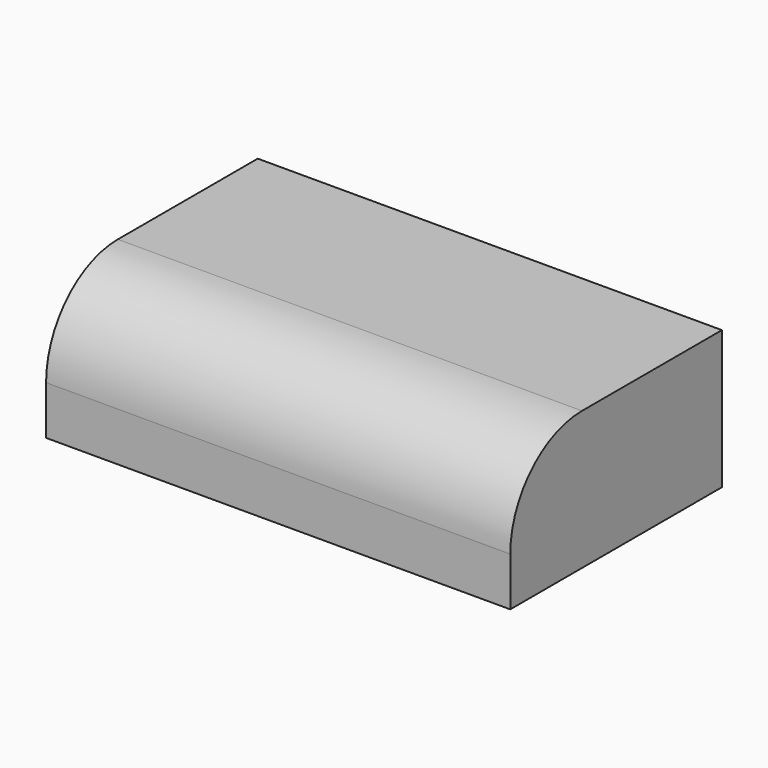
from build123d import *

# Parameters (mm, degrees)
F0_W     = 101.614208
F0_H     = 30.278978
F1_DEPTH = 57.912
F2_R     = 19.622728


with BuildPart() as f1:
    # F0 (on Front) → F1 (new body)
    with BuildSketch(Plane.XZ):
        Rectangle(F0_W, F0_H)
    extrude(amount=F1_DEPTH)

    # F2
    f2_edges = [f1.edges().sort_by_distance(p)[0] for p in [
        (0, -57.912, 15.139489),
    ]]
    fillet(f2_edges, radius=F2_R)


solid = f1.part
